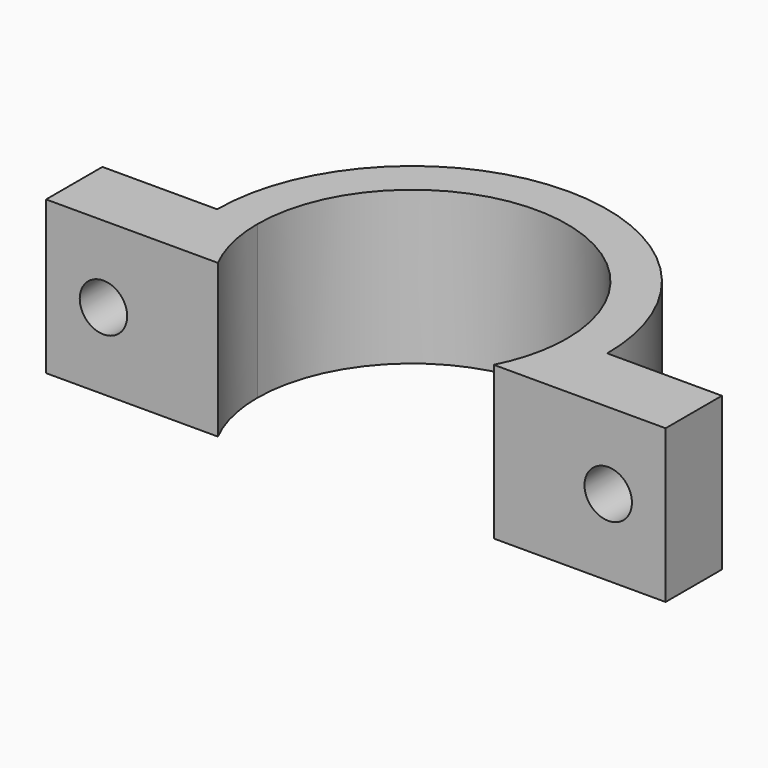
from build123d import *

# Parameters (mm, degrees)
F1_DEPTH = 20
F2_R     = 3.1
F3_R     = 3.1
F4_DEPTH = 25


with BuildPart() as f1:
    # F0 (on Top) → F1 (new body)
    with BuildSketch(Plane.XY):
        with BuildLine():
            ThreePointArc((-23.7800855498, -9.2063853517), (-25.0663338117, -4.6828313273), (-25.5, 0))
            Line((-25.5, 0), (-40.5, 0))
            Line((-40.5, 0), (-40.5, -9.2063853517))
            Line((-40.5, -9.2063853517), (-23.7800855498, -9.2063853517))
        make_face()
        with BuildLine():
            Line((40.5, 0), (25.5, 0))
            ThreePointArc((25.5, 0), (25.0663338117, -4.6828313273), (23.7800855498, -9.2063853517))
            Line((23.7800855498, -9.2063853517), (40.5, -9.2063853517))
            Line((40.5, -9.2063853517), (40.5, 0))
        make_face()
        with BuildLine():
            ThreePointArc((-20.25, 0), (0, 20.25), (20.25, 0))
            Line((20.25, 0), (25.5, 0))
            ThreePointArc((25.5, 0), (0, 25.5), (-25.5, 0))
            Line((-25.5, 0), (-20.25, 0))
        make_face()
        with BuildLine():
            ThreePointArc((-18.0362127054, -9.2063853517), (-19.6887760829, -4.7344055971), (-20.25, 0))
            Line((-20.25, 0), (-25.5, 0))
            ThreePointArc((-25.5, 0), (-25.0663338117, -4.6828313273), (-23.7800855498, -9.2063853517))
            Line((-23.7800855498, -9.2063853517), (-18.0362127054, -9.2063853517))
        make_face()
        with BuildLine():
            Line((25.5, 0), (20.25, 0))
            ThreePointArc((20.25, 0), (19.6887760829, -4.7344055971), (18.0362127054, -9.2063853517))
            Line((18.0362127054, -9.2063853517), (23.7800855498, -9.2063853517))
            ThreePointArc((23.7800855498, -9.2063853517), (25.0663338117, -4.6828313273), (25.5, 0))
        make_face()
    extrude(amount=F1_DEPTH)

    # F2 (on face) + F3 (on face) → F4 (cut)
    with BuildSketch(Plane(origin=(0, 0, 0), x_dir=(-1, 0, 0), z_dir=(0, 1, 0))):
        with Locations((33, 10)):
            Circle(F2_R)
    with BuildSketch(Plane(origin=(0, 0, 0), x_dir=(-1, 0, 0), z_dir=(0, 1, 0))):
        with Locations((-33, 10)):
            Circle(F3_R)
    extrude(amount=-F4_DEPTH, mode=Mode.SUBTRACT)


solid = f1.part
